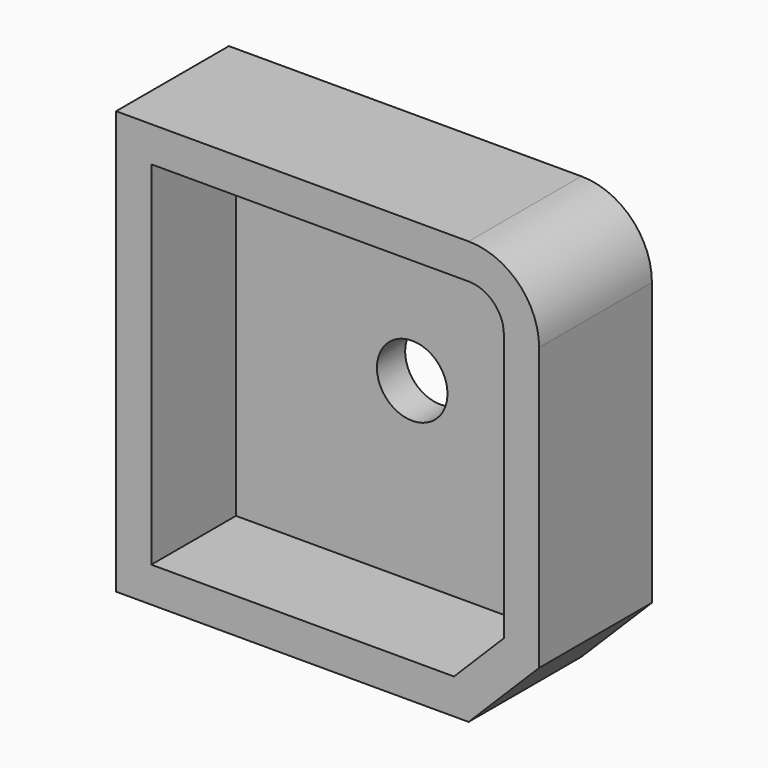
from build123d import *

# Parameters (mm, degrees)
F0_W     = 30
F0_H     = 30
F1_DEPTH = 5
F2_R     = 5
F3_SIZE  = 5
F4_T     = -2.5
F6_D     = 5
F8_D     = 5
F8_DEPTH = 15.001


with BuildPart() as f1:
    # F0 (on Front) → F1 (new body, symmetric)
    with BuildSketch(Plane.XZ):
        Rectangle(F0_W, F0_H)
    extrude(amount=F1_DEPTH, both=True)

    # F2
    f2_edges = [f1.edges().sort_by_distance(p)[0] for p in [
        (15, 0, 15),
    ]]
    fillet(f2_edges, radius=F2_R)

    # F3
    f3_edges = [f1.edges().sort_by_distance(p)[0] for p in [
        (15, 0, -15),
    ]]
    chamfer(f3_edges, length=F3_SIZE)

    # F4
    f4_openings = [f1.faces().sort_by_distance(p)[0] for p in [
        (-0.273371, -5, 0.1045),
    ]]
    offset(amount=F4_T, openings=f4_openings)

    # F6 (through all)
    with Locations(Plane.XZ):
        with Locations((0, 0)):
            Hole(F6_D / 2)

    # F8 (through all, one way)
    with BuildSketch(Plane.YZ):
        with Locations((5.0715617836, 5.2282437682)):
            Circle(F8_D / 2)
    extrude(amount=-F8_DEPTH, mode=Mode.SUBTRACT)


solid = f1.part
